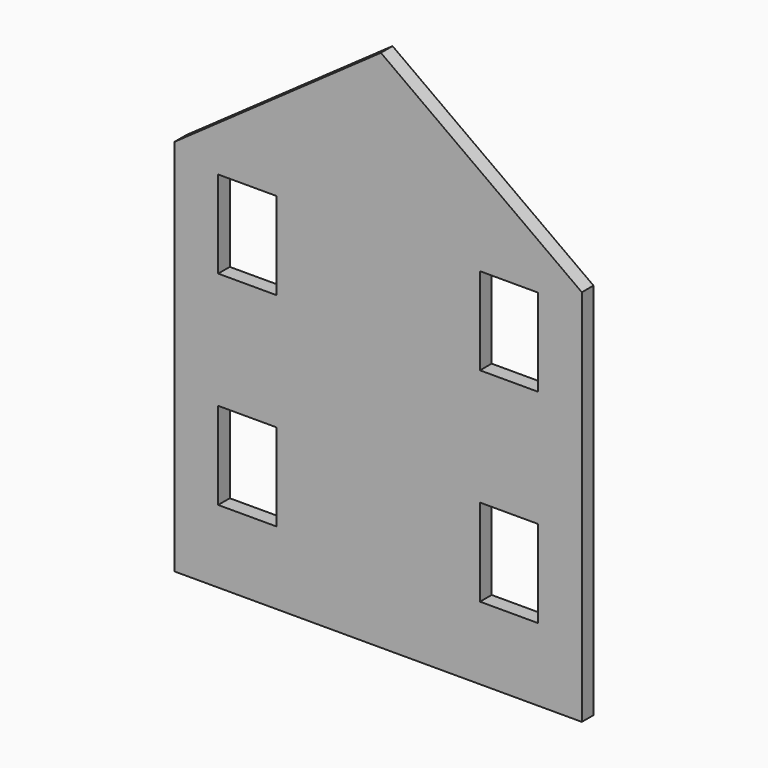
from build123d import *

# Parameters (mm, degrees)
F0_W     = 140
F0_H     = 80
F0_W_2   = 20
F0_H_2   = 30
F1_DEPTH = 2.5


with BuildPart() as f1:
    # F0 (on Front) → F1 (new body, symmetric)
    with BuildSketch(Plane.XZ):
        with Locations((-70, 40)):
            Rectangle(F0_W, F0_H)
        with Locations((-115, 40)):
            Rectangle(F0_W_2, F0_H_2, mode=Mode.SUBTRACT)
        with Locations((-25, 40)):
            Rectangle(F0_W_2, F0_H_2, mode=Mode.SUBTRACT)
        Polygon((-140, 80), (0, 80), (0, 130), (-69.061231, 180), (-140, 130), align=None)
        with Locations((-115, 110)):
            Rectangle(F0_W_2, F0_H_2, mode=Mode.SUBTRACT)
        with Locations((-25, 110)):
            Rectangle(F0_W_2, F0_H_2, mode=Mode.SUBTRACT)
    extrude(amount=F1_DEPTH, both=True)


solid = f1.part
